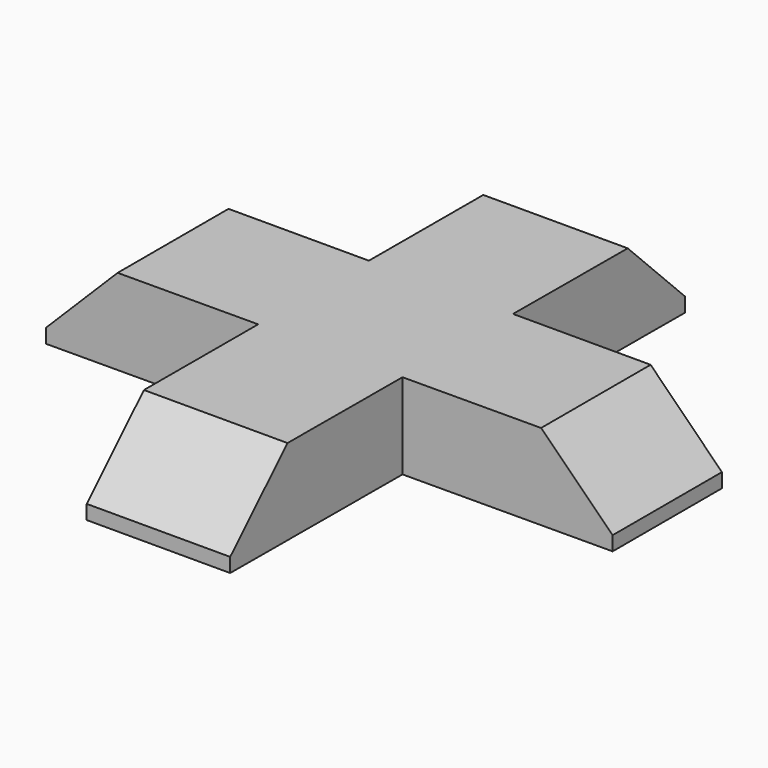
from build123d import *

# Parameters (mm, degrees)
F1_DEPTH = 1.524
F2_SIZE  = 1.27


with BuildPart() as f1:
    # F0 (on Top) → F1 (new body)
    with BuildSketch(Plane.XY):
        Polygon((-5.060716, 1.204835), (-5.060716, 0), (-5.060716, -1.268952), (-1.295788, -1.253771), (-1.303449, -5.060741), (0, -5.060741), (1.251446, -5.060741), (1.266811, -1.243438), (4.996648, -1.228398), (4.996648, 0), (4.996648, 1.204835), (1.276665, 1.204835), (1.292, 5.014827), (0, 5.014827), (-1.283172, 5.014827), (-1.29084, 1.204835), align=None)
    extrude(amount=F1_DEPTH)

    # F2
    f2_edges = [f1.edges().sort_by_distance(p)[0] for p in [
        (-0.026002, -5.060741, 1.524),
        (-5.060716, -0.032059, 1.524),
        (0.004414, 5.014827, 1.524),
        (4.996648, -0.011782, 1.524),
    ]]
    chamfer(f2_edges, length=F2_SIZE)


solid = f1.part
